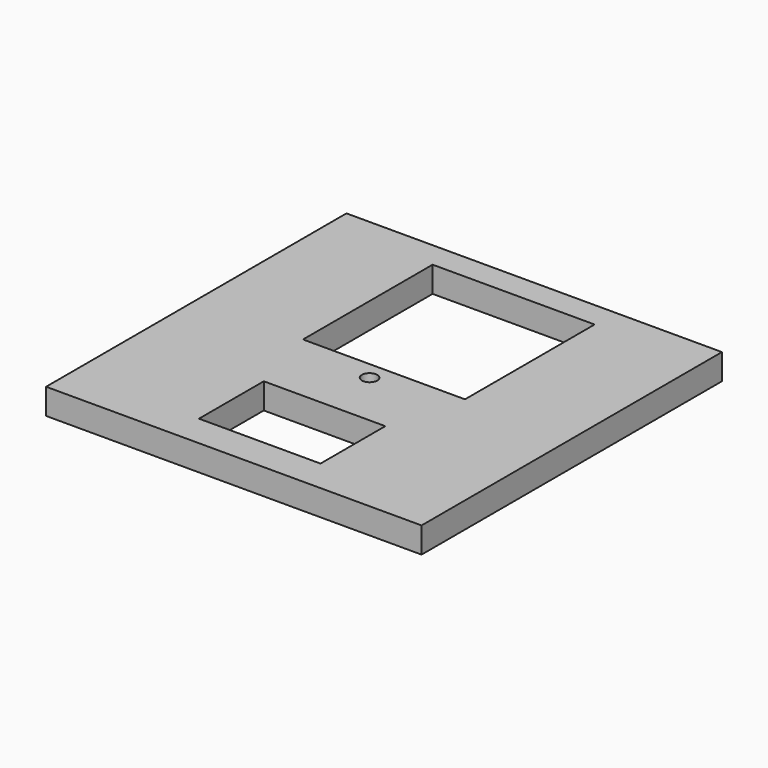
from build123d import *

# Parameters (mm, degrees)
F0_W     = 92.7
F0_H     = 92.7
F1_DEPTH = 6.35
F2_W     = 30
F2_H     = 20
F2_W_2   = 40
F2_H_2   = 40
F2_R     = 1.905
F3_DEPTH = 6.351


with BuildPart() as f1:
    # F0 (on Top) → F1 (new body)
    with BuildSketch(Plane.XY):
        Rectangle(F0_W, F0_H)
    extrude(amount=F1_DEPTH)

    # F2 (on face) → F3 (cut, through all)
    with BuildSketch(Plane.XY.offset(6.35)):
        with Locations((0, -28.35)):
            Rectangle(F2_W, F2_H)
        with Locations((0, 20)):
            Rectangle(F2_W_2, F2_H_2)
        with Locations((0, -4.445)):
            Circle(F2_R)
    extrude(amount=-F3_DEPTH, mode=Mode.SUBTRACT)


solid = f1.part
